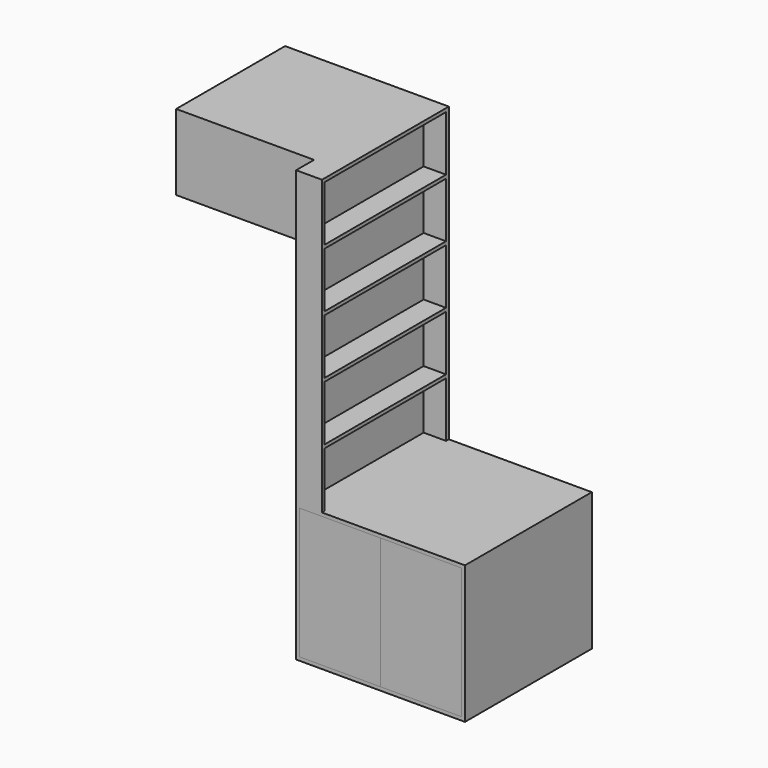
from build123d import *

# Parameters (mm, degrees)
F0_W      = 980
F0_H      = 800
F0_W_2    = 470
F0_H_2    = 760
F1_DEPTH  = 620
F2_T      = -20
F3_DEPTH  = 20
F4_DEPTH  = 20
F6_DEPTH  = 300
F7_W      = 150
F7_H      = 920
F8_DEPTH  = 1700
F9_W      = 880
F9_H      = 320
F10_DEPTH = 130
F11_W     = 790
F11_H     = 440
F12_DEPTH = 800
F13_W     = 760
F13_H     = 400
F14_DEPTH = 770
F15_DEPTH = 20


with BuildPart() as f1:
    # F0 (on Front) → F1 (new body)
    with BuildSketch(Plane.XZ):
        with Locations((0, 400)):
            Rectangle(F0_W, F0_H)
        Polygon((-470, 20), (-470, 780), (0, 780), (470, 780), (470, 20), (0, 20), align=None, mode=Mode.SUBTRACT)
        with Locations((-235, 400)):
            Rectangle(F0_W_2, F0_H_2)
        with Locations((235, 400)):
            Rectangle(F0_W_2, F0_H_2)
    extrude(amount=-F1_DEPTH)

    # F2
    f2_openings = [f1.faces().sort_by_distance(p)[0] for p in [
        (0, 0, 400),
    ]]
    offset(amount=F2_T, openings=f2_openings)

    # F5 (on face) → F6 (join)
    with BuildSketch(Plane(origin=(0, 620, 0), x_dir=(-1, 0, 0), z_dir=(0, 1, 0))):
        Polygon((-490, 0), (-470, 0), (-470, 750), (470, 750), (470, 0), (490, 0), (490, 800), (-490, 800), align=None)
    extrude(amount=F6_DEPTH)

    # F7 (on face) → F8 (join)
    with BuildSketch(Plane.XY.offset(800)):
        with Locations((-415, 460)):
            Rectangle(F7_W, F7_H)
    extrude(amount=F8_DEPTH)

    # F9 (on face) → F10 (cut, through all)
    with BuildSketch(Plane.YZ.offset(-340)):
        with Locations((460, 960)):
            Rectangle(F9_W, F9_H)
        with Locations((460, 1300)):
            Rectangle(F9_W, F9_H)
        with Locations((460, 1640)):
            Rectangle(F9_W, F9_H)
        with Locations((460, 1980)):
            Rectangle(F9_W, F9_H)
        with Locations((460, 2320)):
            Rectangle(F9_W, F9_H)
    extrude(amount=-F10_DEPTH, mode=Mode.SUBTRACT)

    # F11 (on face) → F12 (join)
    with BuildSketch(Plane(origin=(-490, 0, 0), x_dir=(0, -1, 0), z_dir=(-1, 0, 0))):
        with Locations((-525, 2280)):
            Rectangle(F11_W, F11_H)
    extrude(amount=F12_DEPTH)

    # F13 (on face) → F14 (cut, through all)
    with BuildSketch(Plane(origin=(0, 920, 0), x_dir=(-1, 0, 0), z_dir=(0, 1, 0))):
        with Locations((890, 2280)):
            Rectangle(F13_W, F13_H)
    extrude(amount=-F14_DEPTH, mode=Mode.SUBTRACT)


with BuildPart() as f3:
    # F0 (on Front) → F3 (new body)
    with BuildSketch(Plane.XZ):
        with Locations((-235, 400)):
            Rectangle(F0_W_2, F0_H_2)
    extrude(amount=-F3_DEPTH)


with BuildPart() as f4:
    # F0 (on Front) → F4 (new body)
    with BuildSketch(Plane.XZ):
        with Locations((235, 400)):
            Rectangle(F0_W_2, F0_H_2)
    extrude(amount=-F4_DEPTH)


with BuildPart() as f15:
    # F13 (on face) → F15 (new body)
    with BuildSketch(Plane(origin=(0, 920, 0), x_dir=(-1, 0, 0), z_dir=(0, 1, 0))):
        with Locations((890, 2280)):
            Rectangle(F13_W, F13_H)
    extrude(amount=-F15_DEPTH)


solid = Compound([f1.part, f3.part, f4.part, f15.part])
